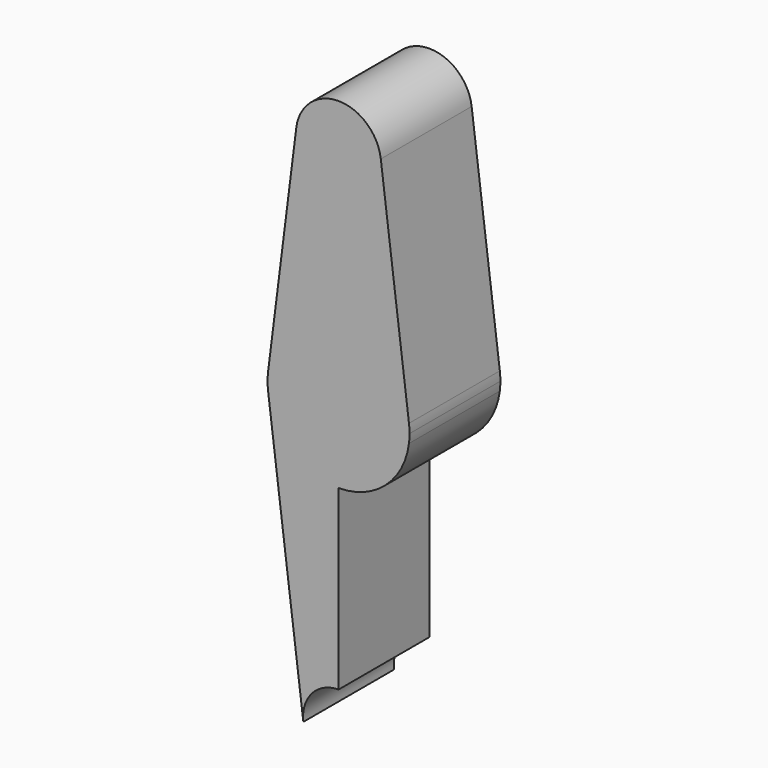
from build123d import *

# Parameters (mm, degrees)
F1_DEPTH = 25.4


with BuildPart() as f1:
    # F0 (on Front) → F1 (new body)
    with BuildSketch(Plane.XZ):
        with BuildLine():
            Line((-10.0362645829, 15.875), (-10.0362645829, 41.275))
            ThreePointArc((-10.0362645829, 41.275), (-17.1800145829, 44.4998046905), (-19.4865575472, 51.990625))
            Line((-19.4865575472, 51.990625), (-25.7867528388, 1.9843751413))
            ThreePointArc((-25.7867528388, 1.9843751413), (-20.5365900453, 11.9062500471), (-10.0362645829, 15.875))
        make_face()
        with BuildLine():
            ThreePointArc((-0.5112645829, 50.8), (-3.3010724921, 44.0648079092), (-10.0362645829, 41.275))
            Line((-10.0362645829, 41.275), (-10.0362645829, 15.875))
            ThreePointArc((-10.0362645829, 15.875), (0.4640609188, 11.9062500123), (5.7142236861, 1.984375037))
            Line((5.7142236861, 1.984375037), (-0.5859716187, 51.990625))
            ThreePointArc((-0.5859716187, 51.990625), (-0.5299596887, 51.396483242), (-0.5112645829, 50.8))
        make_face()
        with BuildLine():
            Line((-10.0362645829, -15.875), (-10.0362645829, 15.875))
            ThreePointArc((-10.0362645829, 15.875), (-20.5365900453, 11.9062500471), (-25.7867528388, 1.9843751413))
            ThreePointArc((-25.7867528388, 1.9843751413), (-25.9112645829, 5.44e-08), (-25.7867528524, -1.9843750333))
            ThreePointArc((-25.7867528524, -1.9843750333), (-20.5365900862, -11.9062500111), (-10.0362645829, -15.875))
        make_face()
        with BuildLine():
            ThreePointArc((5.7142236861, 1.984375037), (0.4640609188, 11.9062500123), (-10.0362645829, 15.875))
            Line((-10.0362645829, 15.875), (-10.0362645829, -15.875))
            ThreePointArc((-10.0362645829, -15.875), (0.4640609203, -11.9062500111), (5.7142236865, -1.9843750333))
            ThreePointArc((5.7142236865, -1.9843750333), (5.8075769064, -0.9941387534), (5.8387354171, 0))
            ThreePointArc((5.8387354171, 0), (5.8075769063, 0.9941387552), (5.7142236861, 1.984375037))
        make_face()
        with BuildLine():
            Line((-10.0362645829, -55.5625), (-10.0362645829, -15.875))
            ThreePointArc((-10.0362645829, -15.875), (-20.5365900862, -11.9062500111), (-25.7867528524, -1.9843750333))
            Line((-25.7867528524, -1.9843750333), (-17.9115087198, -64.4921875))
            ThreePointArc((-17.9115087198, -64.4921875), (-15.9893895829, -58.2498372421), (-10.0362645829, -55.5625))
        make_face()
        with BuildLine():
            ThreePointArc((-19.4865575472, 51.990625), (-17.1800145829, 44.4998046905), (-10.0362645829, 41.275))
            ThreePointArc((-10.0362645829, 41.275), (-3.3010724921, 44.0648079092), (-0.5112645829, 50.8))
            ThreePointArc((-0.5112645829, 50.8), (-0.5299596887, 51.396483242), (-0.5859716187, 51.990625))
            ThreePointArc((-0.5859716187, 51.990625), (-10.0362645829, 60.325), (-19.4865575472, 51.990625))
        make_face()
    extrude(amount=F1_DEPTH)


solid = f1.part
